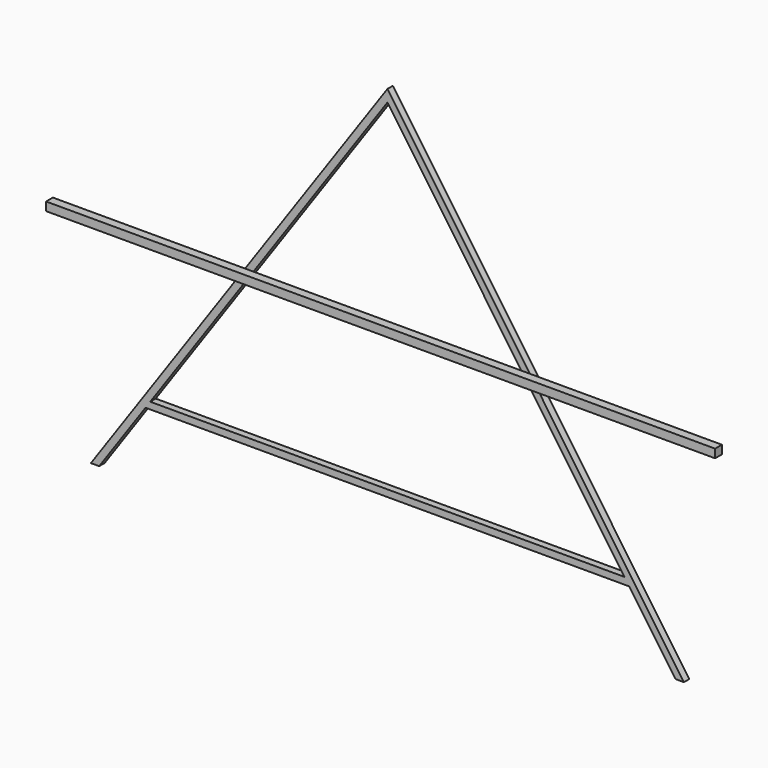
from build123d import *

# Parameters (mm, degrees)
F1_DEPTH = 40
F3_DEPTH = 50


with BuildPart() as f1:
    # F0 (on Front) → F1 (new body)
    with BuildSketch(Plane.XZ):
        Polygon((0, 2430), (0, 2500), (-1740.776559557, 0), (-1692.0348158894, 0), (-1420.0056328006, 390.672170985), (-1392.1532078477, 430.672170985), align=None)
        Polygon((1740.776559557, 0), (0, 2500), (0, 2430), (1392.1532078477, 430.672170985), (1420.0056328006, 390.672170985), (1692.0348158894, 0), align=None)
        Polygon((1392.1532078477, 430.672170985), (-1392.1532078477, 430.672170985), (-1420.0056328006, 390.672170985), (1420.0056328006, 390.672170985), align=None)
    extrude(amount=F1_DEPTH)

    # F2 (on face) → F3 (join)
    with BuildSketch(Plane.XZ.offset(40)):
        Polygon((-870.3882797785, 1250), (-835.5727485874, 1300), (-1963.8553857803, 1300), (-1963.8553857803, 1250), align=None)
        Polygon((-786.8310049198, 1300), (-835.5727485874, 1300), (-870.3882797785, 1250), (-821.6465361109, 1250), align=None)
        Polygon((0, 1300), (-786.8310049198, 1300), (-821.6465361109, 1250), (0, 1250), align=None)
        Polygon((786.8310049198, 1300), (0, 1300), (0, 1250), (821.6465361109, 1250), align=None)
        Polygon((870.3882797785, 1250), (835.5727485874, 1300), (786.8310049198, 1300), (821.6465361109, 1250), align=None)
        Polygon((1963.8553857803, 1300), (835.5727485874, 1300), (870.3882797785, 1250), (1963.8553857803, 1250), align=None)
    extrude(amount=F3_DEPTH)


solid = f1.part
